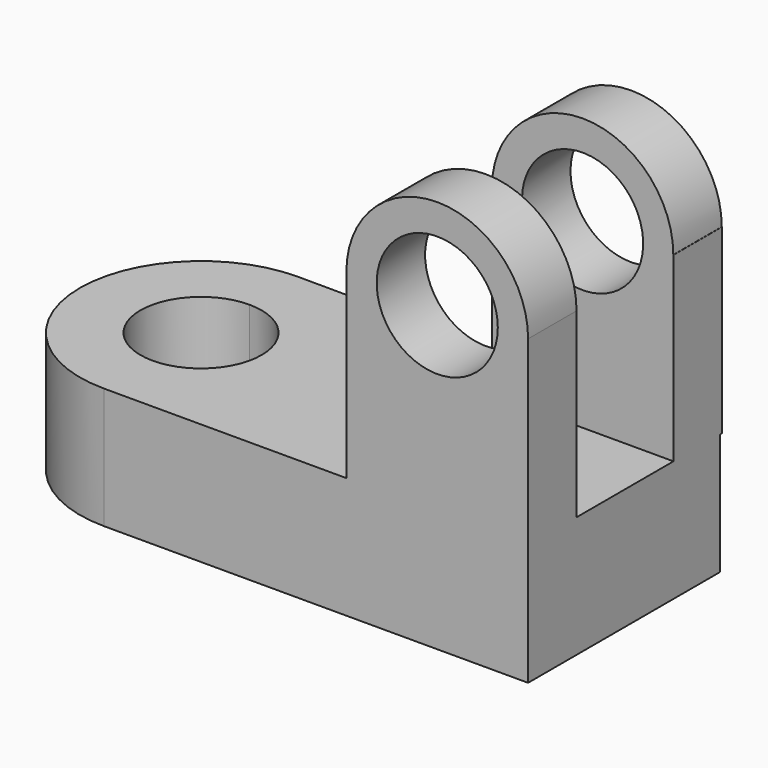
from build123d import *

# Parameters (mm, degrees)
F1_DEPTH  = 25.4
F3_DEPTH  = 38.1
F2_W      = 38.1
F2_H      = 12.7
F4_DEPTH  = 38.1
F6_DEPTH  = 12.7
F7_R      = 12.7
F8_DEPTH  = 38.1
F10_DEPTH = 12.7
F12_DEPTH = 38.1


with BuildPart() as f1:
    # F0 (on Top) → F1 (new body)
    with BuildSketch(Plane.XY):
        with BuildLine():
            Line((23.2921783298, 36.4497782979), (-65.6065904021, 36.9176649997))
            Line((-65.6065904021, 36.9176649997), (-65.6065904021, 24.2176649997))
            ThreePointArc((-65.6065904021, 24.2176649997), (-56.626334281, 20.4979211207), (-52.9065904021, 11.5176649997))
            ThreePointArc((-52.9065904021, 11.5176649997), (-56.626334281, 2.5374088786), (-65.6065904021, -1.1823350003))
            Line((-65.6065904021, -1.1823350003), (-65.6065904021, -13.8823350003))
            Line((-65.6065904021, -13.8823350003), (23.2921783298, -13.8823350003))
            Line((23.2921783298, -13.8823350003), (23.2921783298, 36.4497782979))
        make_face()
        with BuildLine():
            Line((-65.6065904021, 24.2176649997), (-65.6065904021, 36.9176649997))
            ThreePointArc((-65.6065904021, 36.9176649997), (-91.0065904021, 11.5176649997), (-65.6065904021, -13.8823350003))
            Line((-65.6065904021, -13.8823350003), (-65.6065904021, -1.1823350003))
            ThreePointArc((-65.6065904021, -1.1823350003), (-78.3065904021, 11.5176649997), (-65.6065904021, 24.2176649997))
        make_face()
    extrude(amount=F1_DEPTH)

    # F2 (on face) → F3 (join)
    with BuildSketch(Plane.XY.offset(25.4)):
        Polygon((-14.8078216702, 36.9176649997), (-14.8078216702, 36.6503039473), (23.2921783298, 36.4497782979), (23.2921783298, 36.9176649997), align=None)
        Polygon((-14.8078216702, 24.2176649997), (23.2921783298, 24.2176649997), (23.2921783298, 36.4497782979), (-14.8078216702, 36.6503039473), align=None)
    extrude(amount=F3_DEPTH)

    # F2 (on face) → F4 (join)
    with BuildSketch(Plane.XY.offset(25.4)):
        with Locations((4.2421783298, -7.5323350003)):
            Rectangle(F2_W, F2_H)
    extrude(amount=F4_DEPTH)

    # F5 (on face) → F6 (join)
    with BuildSketch(Plane(origin=(0, 36.9176649997, 0), x_dir=(-1, 0, 0), z_dir=(0, 1, 0))):
        with BuildLine():
            Line((-23.2594181519, 63.5), (14.7750614924, 63.5))
            ThreePointArc((14.7750614924, 63.5), (-4.2421783298, 82.5172398221), (-23.2594181519, 63.5))
        make_face()
    extrude(amount=-F6_DEPTH)

    # F7 (on face) → F8 (cut)
    with BuildSketch(Plane(origin=(0, 36.9176649997, 0), x_dir=(-1, 0, 0), z_dir=(0, 1, 0))):
        with Locations((-4.2421783298, 63.5)):
            Circle(F7_R)
    extrude(amount=-F8_DEPTH, mode=Mode.SUBTRACT)

    # F9 (on face) → F10 (join)
    with BuildSketch(Plane.XZ.offset(13.8823350003)):
        with BuildLine():
            Line((-14.8078216702, 63.5), (23.2921783298, 63.5))
            ThreePointArc((23.2921783298, 63.5), (4.2421783298, 82.55), (-14.8078216702, 63.5))
        make_face()
    extrude(amount=-F10_DEPTH)

    # F11 (on face) → F12 (cut)
    with BuildSketch(Plane.XZ.offset(13.8823350003)):
        with BuildLine():
            ThreePointArc((-8.4578216702, 63.5), (4.2421783298, 50.8), (16.9421783298, 63.5))
            Line((16.9421783298, 63.5), (-8.4578216702, 63.5))
        make_face()
        with BuildLine():
            Line((-8.4578216702, 63.5), (16.9421783298, 63.5))
            ThreePointArc((16.9421783298, 63.5), (4.2421783298, 76.2), (-8.4578216702, 63.5))
        make_face()
    extrude(amount=-F12_DEPTH, mode=Mode.SUBTRACT)


solid = f1.part
